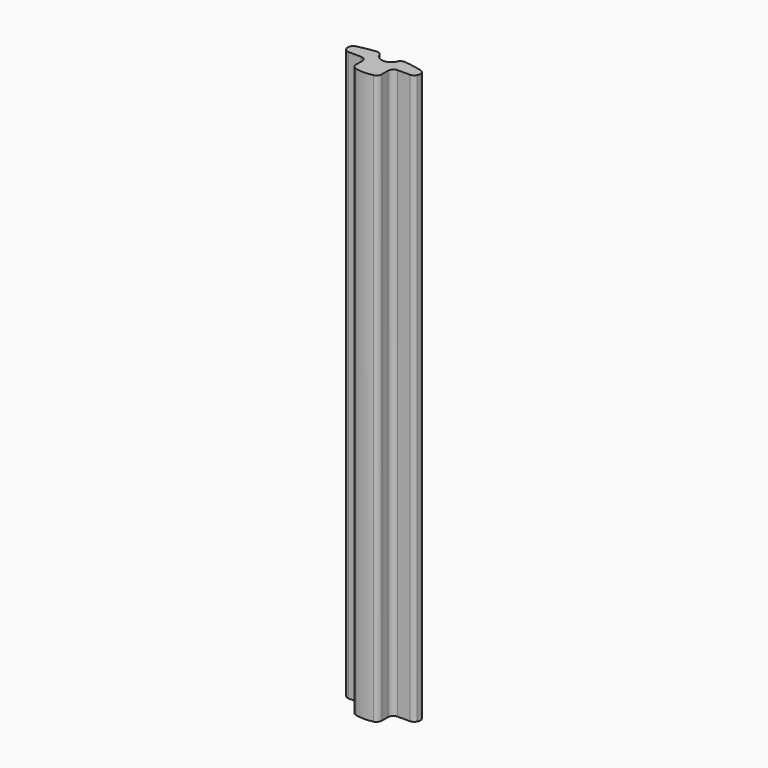
from build123d import *

# Parameters (mm, degrees)
BOX007_W          = 2.42
BOX007_H          = 1.69
BOX007_DEPTH      = 55
BOX008_W          = 2.42
BOX008_H          = 1.69
BOX008_DEPTH      = 55
CYLINDER002_R     = 0.9
CYLINDER002_DEPTH = 55
EXTRUDE011_DEPTH  = 53
FILLET_R          = 0.5


with BuildPart() as obj1:
    # Box007 → Box007 (new body)
    with BuildSketch(Plane(origin=(-3.63, 8.809483, 0), x_dir=(1, 0, 0), z_dir=(0, 0, 1))):
        with Locations((1.21, 0.845)):
            Rectangle(BOX007_W, BOX007_H)
    extrude(amount=BOX007_DEPTH)


with BuildPart() as cubo_der001:
    # Box008 → Box008 (new body)
    with BuildSketch(Plane(origin=(1.21, 8.809483, 0), x_dir=(1, 0, 0), z_dir=(0, 0, 1))):
        with Locations((1.21, 0.845)):
            Rectangle(BOX008_W, BOX008_H)
    extrude(amount=BOX008_DEPTH)


with BuildPart() as cilindro001:
    # Cylinder002 → Cylinder002 (new body)
    with BuildSketch(Plane(origin=(0, 11.9, 0), x_dir=(1, 0, 0), z_dir=(0, 0, 1))):
        Circle(CYLINDER002_R)
    extrude(amount=CYLINDER002_DEPTH)


with BuildPart() as obj2:
    # Sketch011 → Extrude011 (new body)
    with BuildSketch(Plane(origin=(0, -0.2, 0), x_dir=(1, 0, 0), z_dir=(0, 0, 1))):
        with BuildLine():
            ThreePointArc((-3.52341, 11.59655), (0, 8.899483), (3.52341, 11.59655))
            ThreePointArc((3.52341, 11.59655), (0, 12.12), (-3.52341, 11.59655))
        make_face()
    extrude(amount=EXTRUDE011_DEPTH)

    # Cut007: cut Cilindro001
    add(cilindro001.part, mode=Mode.SUBTRACT)

    # Cut008: cut Cubo der001
    add(cubo_der001.part, mode=Mode.SUBTRACT)

    # Cut009: cut obj1
    add(obj1.part, mode=Mode.SUBTRACT)

    # Fillet
    fillet_edges = [obj2.edges().sort_by_distance(p)[0] for p in [
        (-3.146427, 10.499483, 26.5),
        (-3.52341, 11.39655, 26.5),
        (-1.21, 10.499483, 26.5),
        (-0.899899, 11.886545, 26.5),
        (0.899899, 11.886545, 26.5),
        (3.52341, 11.39655, 26.5),
        (3.146427, 10.499483, 26.5),
        (1.21, 10.499483, 26.5),
        (1.21, 8.90588, 26.5),
        (-1.21, 8.90588, 26.5),
    ]]
    fillet(fillet_edges, radius=FILLET_R)


solid = obj2.part
